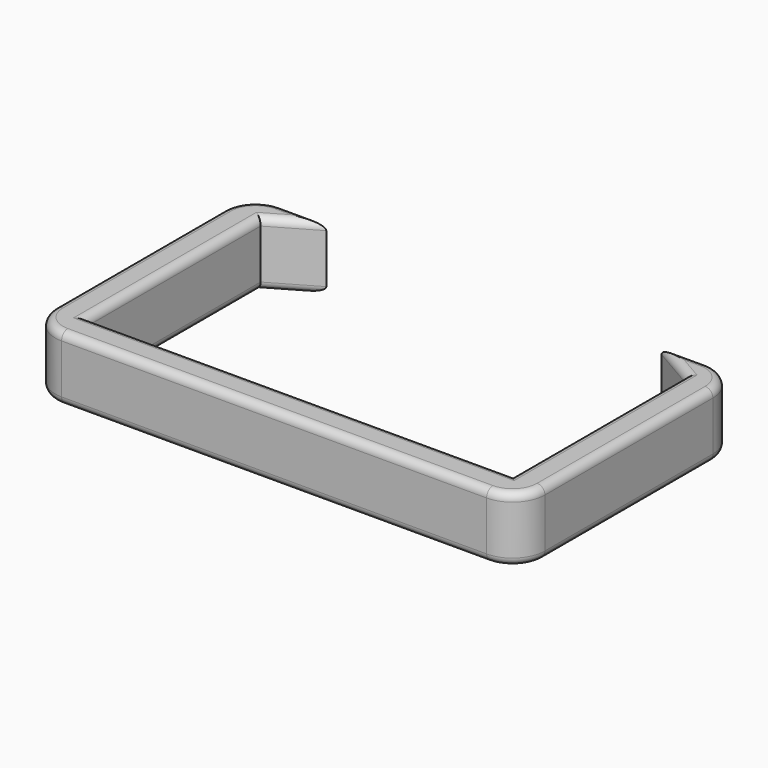
from build123d import *

# Parameters (mm, degrees)
F1_DEPTH = 6.35
F2_R     = 0.762


with BuildPart() as f1:
    # F0 (on Top) → F1 (new body)
    with BuildSketch(Plane.XY):
        with BuildLine():
            Line((-20.574, -2.54), (-16.174591, 0))
            Line((-16.174591, 0), (-20.574, 0))
            ThreePointArc((-20.574, 0), (-22.819064, -0.929936), (-23.749, -3.175))
            Line((-23.749, -3.175), (-23.749, -23.749))
            ThreePointArc((-23.749, -23.749), (-22.819064, -25.994064), (-20.574, -26.924))
            Line((-20.574, -26.924), (21.082, -26.924))
            ThreePointArc((21.082, -26.924), (23.327064, -25.994064), (24.257, -23.749))
            Line((24.257, -23.749), (24.257, -3.175))
            ThreePointArc((24.257, -3.175), (23.327064, -0.929936), (21.082, 0))
            Line((21.082, 0), (16.682591, 0))
            Line((16.682591, 0), (21.082, -2.54))
            Line((21.082, -2.54), (21.082, -23.749))
            Line((21.082, -23.749), (-20.574, -23.749))
            Line((-20.574, -23.749), (-20.574, -2.54))
        make_face()
    extrude(amount=F1_DEPTH)

    # F2
    f2_edges = [f1.edges().sort_by_distance(p)[0] for p in [
        (-20.574, -13.1445, 6.35),
        (-18.374295, -1.27, 6.35),
        (-18.374295, 0, 6.35),
        (-22.819064, -0.929936, 6.35),
        (-23.749, -13.462, 6.35),
        (-22.819064, -25.994064, 6.35),
        (0.254, -26.924, 6.35),
        (23.327064, -25.994064, 6.35),
        (24.257, -13.462, 6.35),
        (23.327064, -0.929936, 6.35),
        (18.882295, 0, 6.35),
        (18.882295, -1.27, 6.35),
        (21.082, -13.1445, 6.35),
        (0.254, -23.749, 6.35),
        (-20.574, -13.1445, 0),
        (-18.374295, -1.27, 0),
        (-18.374295, 0, 0),
        (-22.819064, -0.929936, 0),
        (-23.749, -13.462, 0),
        (-22.819064, -25.994064, 0),
        (0.254, -26.924, 0),
        (23.327064, -25.994064, 0),
        (24.257, -13.462, 0),
        (23.327064, -0.929936, 0),
        (18.882295, 0, 0),
        (18.882295, -1.27, 0),
        (21.082, -13.1445, 0),
        (0.254, -23.749, 0),
    ]]
    fillet(f2_edges, radius=F2_R)


solid = f1.part
